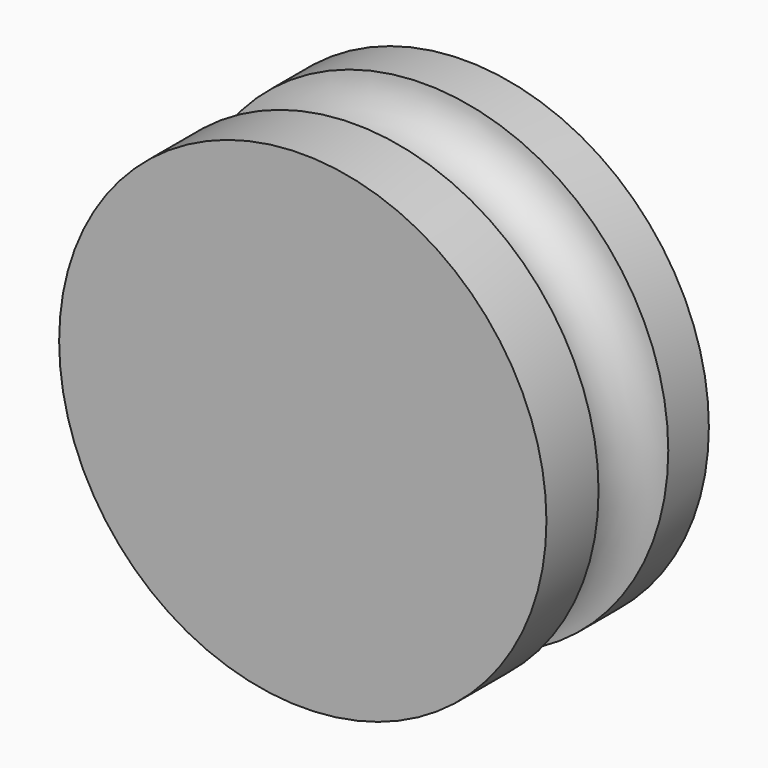
from build123d import *

# Parameters (mm, degrees)
F0_R     = 38.1
F1_DEPTH = 31.75
F2_R     = 6.829463


with BuildPart() as f1:
    # F0 (on Front) → F1 (new body)
    with BuildSketch(Plane.XZ):
        Circle(F0_R)
    extrude(amount=F1_DEPTH)

    # F2 (on Top) → F3 (revolve, cut)
    with BuildSketch(Plane.XY):
        with Locations((38.546924, -14.74872)):
            Circle(F2_R)
    revolve(axis=Axis((0, -31.75, 0), (0, -1, 0)), mode=Mode.SUBTRACT)


solid = f1.part
